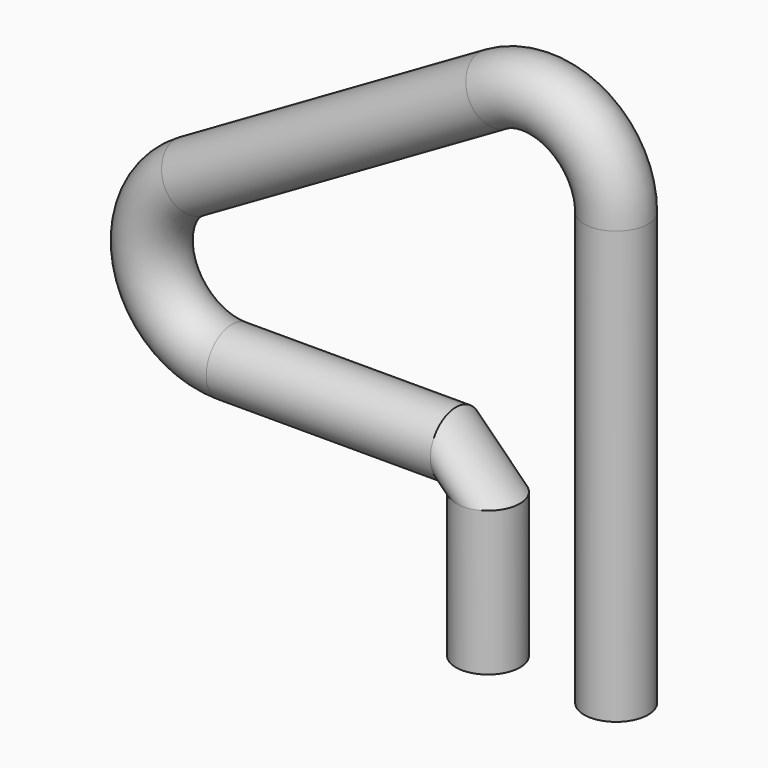
from build123d import *

# Parameters (mm, degrees)
F2_R = 6.35


with BuildPart() as f3:
    # F3: sweep along a path in F0
    with BuildLine(Plane.XZ) as f3_path:
        Line((64.049415077, 63.8908846664), (64.049415077, 149.543875866))
        ThreePointArc((64.049415077, 149.543875866), (56.111915077, 163.2920291511), (40.236915077, 163.2920291511))
        Line((40.236915077, 163.2920291511), (-20.070823171, 128.4733402394))
        ThreePointArc((-20.070823171, 128.4733402394), (-27.4673956633, 110.6164346134), (-12.133323171, 98.8501869544))
        Line((-12.133323171, 98.8501869544), (32.299415077, 98.8501869544))
        ThreePointArc((32.299415077, 98.8501869544), (36.7895431375, 96.9903150149), (38.649415077, 92.5001869544))
        Line((38.649415077, 92.5001869544), (38.649415077, 63.8908846664))
    # F2 (on line) → F3 (sweep)
    with BuildSketch(Plane.XY.offset(63.8908846664)):
        with Locations((64.049415077, 0)):
            Circle(F2_R)
    sweep(path=f3_path.line)


solid = f3.part
